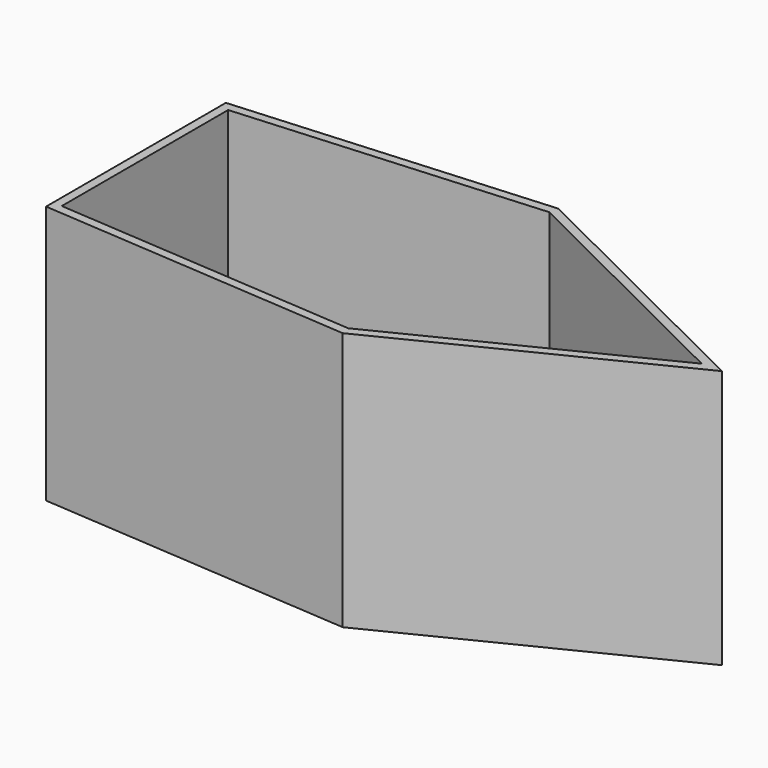
from build123d import *

# Parameters (mm, degrees)
F1_DEPTH    = 63.5
F2_T        = -2.54
F4_DEPTH    = 25.4
F1_FACE_R   = 3.81
F1_FACE_R_2 = 3.814678
F5_DEPTH    = 9.652
F7_R        = 3.80479
F8_DEPTH    = 90.678
F9_DEPTH    = 0.254
F7_R_2      = 3.81
F10_DEPTH   = 90.424
F11_R       = 3.910877
F12_DEPTH   = 0.254


with BuildPart() as f1:
    # F0 (on Top) → F1 (new body)
    with BuildSketch(Plane.XY):
        Polygon((76.681964, 0), (0, 38.1), (0, 0), (0, -38.1), align=None)
        Polygon((0, 0), (0, 38.1), (-88.9, 31.75), (-88.9, 0), align=None)
        Polygon((0, -38.1), (0, 0), (-88.9, 0), (-88.9, -31.75), align=None)
    extrude(amount=F1_DEPTH)

    # F2
    f2_openings = [f1.faces().sort_by_distance(p)[0] for p in [
        (-21.133783, 0, 63.5),
    ]]
    offset(amount=F2_T, openings=f2_openings)

    # F3 (on face) → F4 (cut)
    with BuildSketch(Plane(origin=(0, 0, 0), x_dir=(1, 0, 0), z_dir=(0, 0, -1))):
        with BuildLine():
            ThreePointArc((3.814678, -4.445), (2.697385, -1.747615), (0, -0.630322))
            ThreePointArc((0, -0.630322), (-2.697385, -7.142385), (3.814678, -4.445))
        make_face()
        with BuildLine():
            ThreePointArc((3.81, 4.445), (-2.694077, 7.139077), (0, 0.635))
            ThreePointArc((0, 0.635), (2.694077, 1.750923), (3.81, 4.445))
        make_face()
    extrude(amount=-F4_DEPTH, mode=Mode.SUBTRACT)

    # F1_face (on face) → F5 (join)
    with BuildSketch(Plane(origin=(-21.133783, 0, 0), x_dir=(1, 0, 0), z_dir=(0, 0, -1))):
        Polygon((21.133783, -38.1), (97.815747, 0), (21.133783, 38.1), (-67.766217, 31.75), (-67.766217, -31.75), align=None)
        with Locations((21.133783, 4.445)):
            Circle(F1_FACE_R, mode=Mode.SUBTRACT)
        with Locations((21.133783, -4.445)):
            Circle(F1_FACE_R_2, mode=Mode.SUBTRACT)
    extrude(amount=F5_DEPTH)

    # F7 (on face) → F8 (cut)
    with BuildSketch(Plane(origin=(-88.9, 0, 0), x_dir=(0, -1, 0), z_dir=(-1, 0, 0))):
        with Locations((-4.496679, -4.826)):
            Circle(F7_R)
    extrude(amount=-F8_DEPTH, mode=Mode.SUBTRACT)

    # F6 (on face) → F9 (join)
    with BuildSketch(Plane(origin=(0, 0, -9.652), x_dir=(1, 0, 0), z_dir=(0, 0, -1))):
        with BuildLine():
            ThreePointArc((3.814678, -4.445), (0, -0.630322), (-3.814678, -4.445))
            ThreePointArc((-3.814678, -4.445), (0, -8.259678), (3.814678, -4.445))
        make_face()
    extrude(amount=-F9_DEPTH)

    # F7 (on face) → F10 (cut)
    with BuildSketch(Plane(origin=(-88.9, 0, 0), x_dir=(0, -1, 0), z_dir=(-1, 0, 0))):
        with Locations((4.593814, -4.826)):
            Circle(F7_R_2)
    extrude(amount=-F10_DEPTH, mode=Mode.SUBTRACT)

    # F11 (on face) → F12 (join)
    with BuildSketch(Plane(origin=(0, 0, -9.652), x_dir=(1, 0, 0), z_dir=(0, 0, -1))):
        with Locations((0, 4.445)):
            Circle(F11_R)
    extrude(amount=-F12_DEPTH)


solid = f1.part
